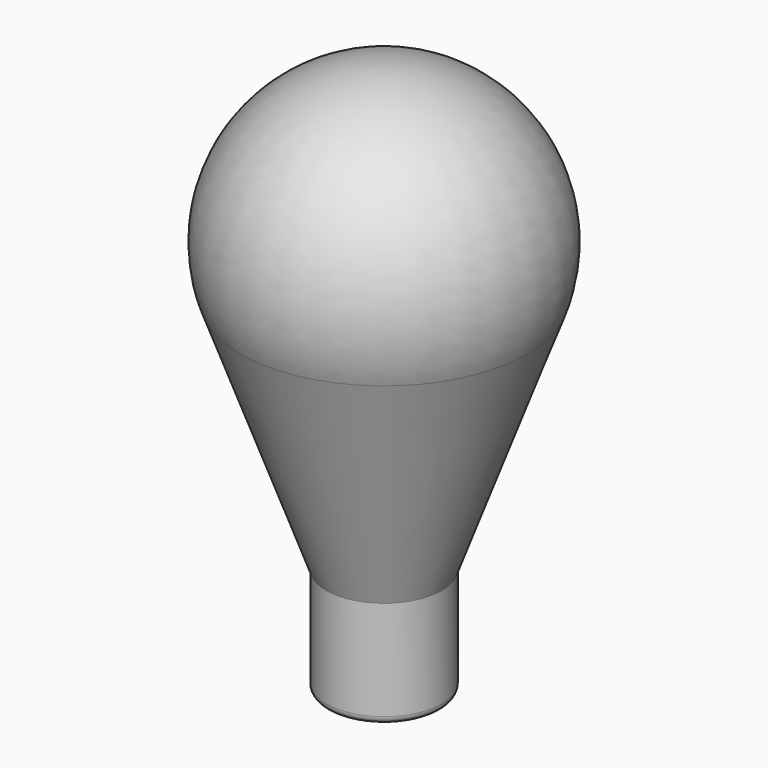
from build123d import *


with BuildPart() as f2:
    # F0 (on Front) → F2 (revolve)
    with BuildSketch(Plane.XZ):
        with BuildLine():
            ThreePointArc((-28.190779, 47.231276), (-24.574561, 74.699173), (0, 87.49188))
            Line((0, 87.49188), (0, 87.99188))
            ThreePointArc((0, 87.99188), (-24.984137, 74.985962), (-28.660625, 47.060266))
            Line((-28.660625, 47.060266), (-11.5, -0.088163))
            Line((-11.5, -0.088163), (-11.5, -20))
            ThreePointArc((-11.5, -20), (-11.06066, -21.06066), (-10, -21.5))
            Line((-10, -21.5), (0, -21.5))
            Line((0, -21.5), (0, -21))
            Line((0, -21), (-10, -21))
            ThreePointArc((-10, -21), (-10.707107, -20.707107), (-11, -20))
            Line((-11, -20), (-11, -0.881635))
            ThreePointArc((-11, -0.881635), (-11.075961, -0.013394), (-11.301537, 0.828466))
            Line((-11.301537, 0.828466), (-28.190779, 47.231276))
        make_face()
    revolve(axis=Axis((0, 0, 43.498036), (0, 0, 1)))


solid = f2.part
